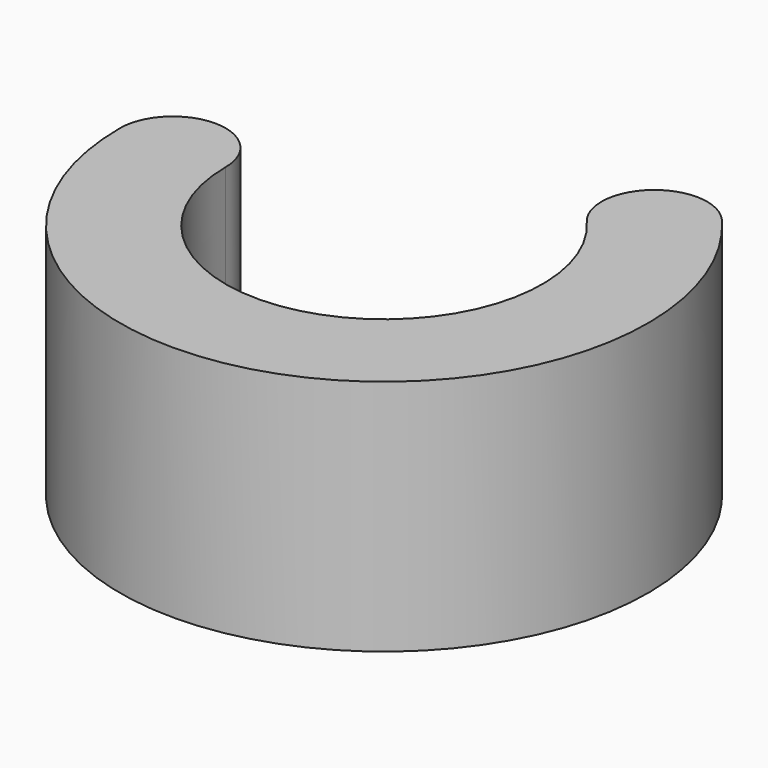
from build123d import *

# Parameters (mm, degrees)
F1_DEPTH = 9


with BuildPart() as f1:
    # F0 (on Top) → F1 (new body)
    with BuildSketch(Plane.XY):
        with BuildLine():
            ThreePointArc((-10, 0), (-8, -2), (-6, 0))
            ThreePointArc((-6, 0), (-8, 2), (-10, 0))
        make_face()
        with BuildLine():
            ThreePointArc((4.546875, 3.914834), (2.087912, -5.625), (-6, 0))
            ThreePointArc((-6, 0), (-8, -2), (-10, 0))
            ThreePointArc((-10, 0), (3.479853, -9.375), (7.578125, 6.524724))
            ThreePointArc((7.578125, 6.524724), (7.9375, 5.91575), (8.0625, 5.219779))
            ThreePointArc((8.0625, 5.219779), (6.758471, 3.344779), (4.546875, 3.914834))
        make_face()
        with BuildLine():
            ThreePointArc((7.578125, 6.524724), (4.757555, 6.735404), (4.546875, 3.914834))
            ThreePointArc((4.546875, 3.914834), (6.758471, 3.344779), (8.0625, 5.219779))
            ThreePointArc((8.0625, 5.219779), (7.9375, 5.91575), (7.578125, 6.524724))
        make_face()
    extrude(amount=F1_DEPTH)


solid = f1.part
